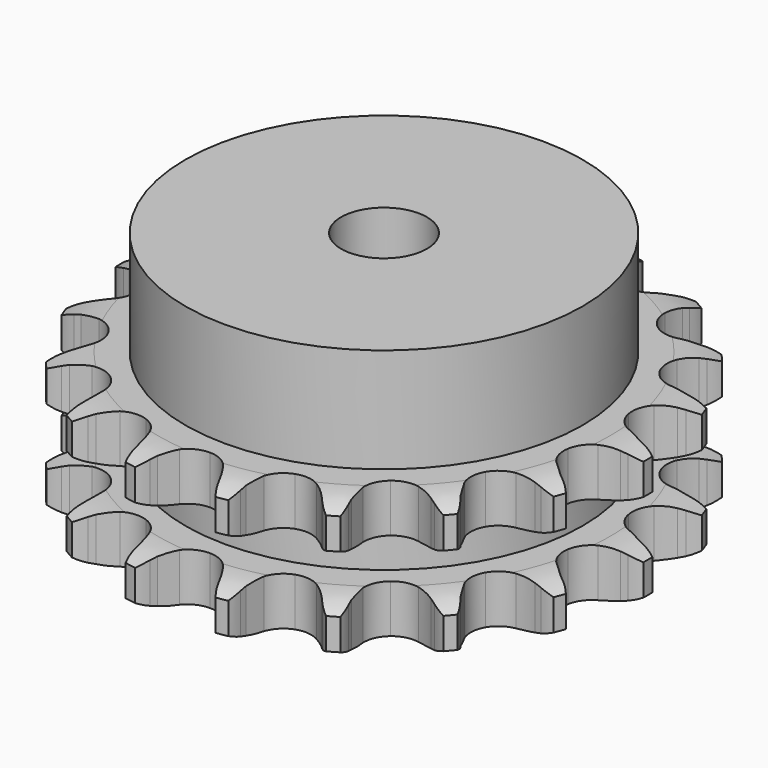
from build123d import *

# Parameters (mm, degrees)
PAD_DEPTH         = 25.5
SKETCH001_R       = 37
PAD001_DEPTH      = 45
SKETCH002_R       = 8
POCKET_DEPTH      = 0.001
POCKET_DEPTH_BACK = 45.001


with BuildPart() as part:
    # Sprocket → Pad (new body)
    with BuildSketch(Plane.XY):
        with BuildLine():
            ThreePointArc((-8.789023, 49.845028), (-7.33541, 48.372265), (-6.285014, 46.589377))
            Line((-6.285014, 46.589377), (-5.800158, 45.47132))
            ThreePointArc((-5.800158, 45.47132), (-5.013399, 43.938261), (-4.034642, 42.520059))
            ThreePointArc((-4.034642, 42.520059), (-2.241305, 41.080754), (0, 40.566741))
            ThreePointArc((0, 40.566741), (2.241305, 41.080754), (4.034642, 42.520059))
            ThreePointArc((4.034642, 42.520059), (5.013399, 43.938261), (5.800158, 45.47132))
            Line((5.800158, 45.47132), (6.285014, 46.589377))
            ThreePointArc((6.285014, 46.589377), (7.33541, 48.372265), (8.789023, 49.845028))
            ThreePointArc((8.789023, 49.845028), (9.651258, 47.963919), (10.028524, 45.929296))
            Line((10.028524, 45.929296), (10.101742, 44.712835))
            ThreePointArc((10.101742, 44.712835), (10.316716, 43.003143), (10.751394, 41.335715))
            ThreePointArc((10.751394, 41.335715), (11.944308, 39.369853), (13.874642, 38.120267))
            ThreePointArc((13.874642, 38.120267), (16.156583, 37.83671), (18.33404, 38.575857))
            Line((18.33404, 38.575857), (21.002473, 40.745293))
            ThreePointArc((21.002473, 40.745293), (21.411319, 41.197317), (21.840487, 41.630093))
            ThreePointArc((21.840487, 41.630093), (23.43732, 42.946202), (25.306984, 43.832982))
            ThreePointArc((25.306984, 43.832982), (25.473842, 41.770416), (25.132474, 39.729463))
            Line((25.132474, 39.729463), (24.785223, 38.561322))
            ThreePointArc((24.785223, 38.561322), (24.402483, 36.881211), (24.240652, 35.165673))
            ThreePointArc((24.240652, 35.165673), (24.689261, 32.910367), (26.075798, 31.075926))
            ThreePointArc((26.075798, 31.075926), (28.123139, 30.029001), (30.422082, 29.978837))
            Line((30.422082, 29.978837), (33.67158, 31.104783))
            ThreePointArc((33.67158, 31.104783), (34.21037, 31.389712), (34.761675, 31.649604))
            ThreePointArc((34.761675, 31.649604), (36.712343, 32.340194), (38.772549, 32.534031))
            ThreePointArc((38.772549, 32.534031), (38.223905, 30.538784), (37.205077, 28.737671))
            Line((37.205077, 28.737671), (36.479239, 27.758744))
            ThreePointArc((36.479239, 27.758744), (35.54495, 26.310861), (34.806131, 24.754132))
            ThreePointArc((34.806131, 24.754132), (34.456324, 22.481404), (35.131828, 20.28337))
            ThreePointArc((35.131828, 20.28337), (36.697629, 18.59935), (38.840773, 17.765927))
            Line((38.840773, 17.765927), (42.279397, 17.712576))
            ThreePointArc((42.279397, 17.712576), (42.883147, 17.796045), (43.490091, 17.851707))
            ThreePointArc((43.490091, 17.851707), (45.559316, 17.833481), (47.561572, 17.310997))
            ThreePointArc((47.561572, 17.310997), (46.363601, 15.623725), (44.790199, 14.279691))
            Line((44.790199, 14.279691), (43.773322, 13.608052))
            ThreePointArc((43.773322, 13.608052), (42.400172, 12.567033), (41.173476, 11.356878))
            ThreePointArc((41.173476, 11.356878), (40.067447, 9.340853), (39.950441, 7.044341))
            ThreePointArc((39.950441, 7.044341), (40.845844, 4.926344), (42.574692, 3.410184))
            Line((42.574692, 3.410184), (45.787695, 2.183972))
            ThreePointArc((45.787695, 2.183972), (46.383582, 2.055912), (46.972961, 1.90063))
            ThreePointArc((46.972961, 1.90063), (48.911162, 1.175787), (50.613968, 0))
            ThreePointArc((50.613968, 0), (48.911162, -1.175787), (46.972961, -1.90063))
            Line((46.972961, -1.90063), (45.787695, -2.183972))
            ThreePointArc((45.787695, -2.183972), (44.141307, -2.692564), (42.574692, -3.410184))
            ThreePointArc((42.574692, -3.410184), (40.845844, -4.926344), (39.950441, -7.044341))
            ThreePointArc((39.950441, -7.044341), (40.067447, -9.340853), (41.173476, -11.356878))
            Line((41.173476, -11.356878), (43.773322, -13.608052))
            ThreePointArc((43.773322, -13.608052), (44.289473, -13.932194), (44.790199, -14.279691))
            ThreePointArc((44.790199, -14.279691), (46.363601, -15.623725), (47.561572, -17.310997))
            ThreePointArc((47.561572, -17.310997), (45.559316, -17.833481), (43.490091, -17.851707))
            Line((43.490091, -17.851707), (42.279397, -17.712576))
            ThreePointArc((42.279397, -17.712576), (40.55835, -17.627399), (38.840773, -17.765927))
            ThreePointArc((38.840773, -17.765927), (36.697629, -18.59935), (35.131828, -20.28337))
            ThreePointArc((35.131828, -20.28337), (34.456324, -22.481404), (34.806131, -24.754132))
            Line((34.806131, -24.754132), (36.479239, -27.758744))
            ThreePointArc((36.479239, -27.758744), (36.853401, -28.239872), (37.205077, -28.737671))
            ThreePointArc((37.205077, -28.737671), (38.223905, -30.538784), (38.772549, -32.534031))
            ThreePointArc((38.772549, -32.534031), (36.712343, -32.340194), (34.761675, -31.649604))
            Line((34.761675, -31.649604), (33.67158, -31.104783))
            ThreePointArc((33.67158, -31.104783), (32.083456, -30.436109), (30.422082, -29.978837))
            ThreePointArc((30.422082, -29.978837), (28.123139, -30.029001), (26.075798, -31.075926))
            ThreePointArc((26.075798, -31.075926), (24.689261, -32.910367), (24.240652, -35.165673))
            Line((24.240652, -35.165673), (24.785223, -38.561322))
            ThreePointArc((24.785223, -38.561322), (24.972264, -39.141404), (25.132474, -39.729463))
            ThreePointArc((25.132474, -39.729463), (25.473842, -41.770416), (25.306984, -43.832982))
            ThreePointArc((25.306984, -43.832982), (23.43732, -42.946202), (21.840487, -41.630093))
            Line((21.840487, -41.630093), (21.002473, -40.745293))
            ThreePointArc((21.002473, -40.745293), (19.738825, -39.573776), (18.33404, -38.575857))
            ThreePointArc((18.33404, -38.575857), (16.156583, -37.83671), (13.874642, -38.120267))
            ThreePointArc((13.874642, -38.120267), (11.944308, -39.369853), (10.751394, -41.335715))
            Line((10.751394, -41.335715), (10.101742, -44.712835))
            ThreePointArc((10.101742, -44.712835), (10.079103, -45.321906), (10.028524, -45.929296))
            ThreePointArc((10.028524, -45.929296), (9.651258, -47.963919), (8.789023, -49.845028))
            ThreePointArc((8.789023, -49.845028), (7.33541, -48.372265), (6.285014, -46.589377))
            Line((6.285014, -46.589377), (5.800158, -45.47132))
            ThreePointArc((5.800158, -45.47132), (5.013399, -43.938261), (4.034642, -42.520059))
            ThreePointArc((4.034642, -42.520059), (2.241305, -41.080754), (0, -40.566741))
            ThreePointArc((0, -40.566741), (-2.241305, -41.080754), (-4.034642, -42.520059))
            Line((-4.034642, -42.520059), (-5.800158, -45.47132))
            ThreePointArc((-5.800158, -45.47132), (-6.029746, -46.035917), (-6.285014, -46.589377))
            ThreePointArc((-6.285014, -46.589377), (-7.33541, -48.372265), (-8.789023, -49.845028))
            ThreePointArc((-8.789023, -49.845028), (-9.651258, -47.963919), (-10.028524, -45.929296))
            Line((-10.028524, -45.929296), (-10.101742, -44.712835))
            ThreePointArc((-10.101742, -44.712835), (-10.316716, -43.003143), (-10.751394, -41.335715))
            ThreePointArc((-10.751394, -41.335715), (-11.944308, -39.369853), (-13.874642, -38.120267))
            ThreePointArc((-13.874642, -38.120267), (-16.156583, -37.83671), (-18.33404, -38.575857))
            Line((-18.33404, -38.575857), (-21.002473, -40.745293))
            ThreePointArc((-21.002473, -40.745293), (-21.411319, -41.197317), (-21.840487, -41.630093))
            ThreePointArc((-21.840487, -41.630093), (-23.43732, -42.946202), (-25.306984, -43.832982))
            ThreePointArc((-25.306984, -43.832982), (-25.473842, -41.770416), (-25.132474, -39.729463))
            Line((-25.132474, -39.729463), (-24.785223, -38.561322))
            ThreePointArc((-24.785223, -38.561322), (-24.402483, -36.881211), (-24.240652, -35.165673))
            ThreePointArc((-24.240652, -35.165673), (-24.689261, -32.910367), (-26.075798, -31.075926))
            ThreePointArc((-26.075798, -31.075926), (-28.123139, -30.029001), (-30.422082, -29.978837))
            Line((-30.422082, -29.978837), (-33.67158, -31.104783))
            ThreePointArc((-33.67158, -31.104783), (-34.21037, -31.389712), (-34.761675, -31.649604))
            ThreePointArc((-34.761675, -31.649604), (-36.712343, -32.340194), (-38.772549, -32.534031))
            ThreePointArc((-38.772549, -32.534031), (-38.223905, -30.538784), (-37.205077, -28.737671))
            Line((-37.205077, -28.737671), (-36.479239, -27.758744))
            ThreePointArc((-36.479239, -27.758744), (-35.54495, -26.310861), (-34.806131, -24.754132))
            ThreePointArc((-34.806131, -24.754132), (-34.456324, -22.481404), (-35.131828, -20.28337))
            ThreePointArc((-35.131828, -20.28337), (-36.697629, -18.59935), (-38.840773, -17.765927))
            Line((-38.840773, -17.765927), (-42.279397, -17.712576))
            ThreePointArc((-42.279397, -17.712576), (-42.883147, -17.796045), (-43.490091, -17.851707))
            ThreePointArc((-43.490091, -17.851707), (-45.559316, -17.833481), (-47.561572, -17.310997))
            ThreePointArc((-47.561572, -17.310997), (-46.363601, -15.623725), (-44.790199, -14.279691))
            Line((-44.790199, -14.279691), (-43.773322, -13.608052))
            ThreePointArc((-43.773322, -13.608052), (-42.400172, -12.567033), (-41.173476, -11.356878))
            ThreePointArc((-41.173476, -11.356878), (-40.067447, -9.340853), (-39.950441, -7.044341))
            ThreePointArc((-39.950441, -7.044341), (-40.845844, -4.926344), (-42.574692, -3.410184))
            Line((-42.574692, -3.410184), (-45.787695, -2.183972))
            ThreePointArc((-45.787695, -2.183972), (-46.383582, -2.055912), (-46.972961, -1.90063))
            ThreePointArc((-46.972961, -1.90063), (-48.911162, -1.175787), (-50.613968, 0))
            ThreePointArc((-50.613968, 0), (-48.911162, 1.175787), (-46.972961, 1.90063))
            Line((-46.972961, 1.90063), (-45.787695, 2.183972))
            ThreePointArc((-45.787695, 2.183972), (-44.141307, 2.692564), (-42.574692, 3.410184))
            ThreePointArc((-42.574692, 3.410184), (-40.845844, 4.926344), (-39.950441, 7.044341))
            ThreePointArc((-39.950441, 7.044341), (-40.067447, 9.340853), (-41.173476, 11.356878))
            Line((-41.173476, 11.356878), (-43.773322, 13.608052))
            ThreePointArc((-43.773322, 13.608052), (-44.289473, 13.932194), (-44.790199, 14.279691))
            ThreePointArc((-44.790199, 14.279691), (-46.363601, 15.623725), (-47.561572, 17.310997))
            ThreePointArc((-47.561572, 17.310997), (-45.559316, 17.833481), (-43.490091, 17.851707))
            Line((-43.490091, 17.851707), (-42.279397, 17.712576))
            ThreePointArc((-42.279397, 17.712576), (-40.55835, 17.627399), (-38.840773, 17.765927))
            ThreePointArc((-38.840773, 17.765927), (-36.697629, 18.59935), (-35.131828, 20.28337))
            ThreePointArc((-35.131828, 20.28337), (-34.456324, 22.481404), (-34.806131, 24.754132))
            Line((-34.806131, 24.754132), (-36.479239, 27.758744))
            ThreePointArc((-36.479239, 27.758744), (-36.853401, 28.239872), (-37.205077, 28.737671))
            ThreePointArc((-37.205077, 28.737671), (-38.223905, 30.538784), (-38.772549, 32.534031))
            ThreePointArc((-38.772549, 32.534031), (-36.712343, 32.340194), (-34.761675, 31.649604))
            Line((-34.761675, 31.649604), (-33.67158, 31.104783))
            ThreePointArc((-33.67158, 31.104783), (-32.083456, 30.436109), (-30.422082, 29.978837))
            ThreePointArc((-30.422082, 29.978837), (-28.123139, 30.029001), (-26.075798, 31.075926))
            ThreePointArc((-26.075798, 31.075926), (-24.689261, 32.910367), (-24.240652, 35.165673))
            Line((-24.240652, 35.165673), (-24.785223, 38.561322))
            ThreePointArc((-24.785223, 38.561322), (-24.972264, 39.141404), (-25.132474, 39.729463))
            ThreePointArc((-25.132474, 39.729463), (-25.473842, 41.770416), (-25.306984, 43.832982))
            ThreePointArc((-25.306984, 43.832982), (-23.43732, 42.946202), (-21.840487, 41.630093))
            Line((-21.840487, 41.630093), (-21.002473, 40.745293))
            ThreePointArc((-21.002473, 40.745293), (-19.738825, 39.573776), (-18.33404, 38.575857))
            ThreePointArc((-18.33404, 38.575857), (-16.156583, 37.83671), (-13.874642, 38.120267))
            ThreePointArc((-13.874642, 38.120267), (-11.944308, 39.369853), (-10.751394, 41.335715))
            Line((-10.751394, 41.335715), (-10.101742, 44.712835))
            ThreePointArc((-10.101742, 44.712835), (-10.079103, 45.321906), (-10.028524, 45.929296))
            ThreePointArc((-10.028524, 45.929296), (-9.651258, 47.963919), (-8.789023, 49.845028))
        make_face()
    extrude(amount=PAD_DEPTH)

    # Sketch → Groove (revolve, cut)
    with BuildSketch(Plane.XZ):
        with BuildLine():
            ThreePointArc((42.175762, 0), (45.75347, 0.405129), (49.15, 1.6))
            Line((49.15, 1.6), (49.15, 7.4))
            ThreePointArc((49.15, 7.4), (45.75347, 8.594871), (42.175762, 9))
            Line((37, 9), (42.175762, 9))
            Line((37, 16.5), (37, 9))
            Line((42.175762, 16.5), (37, 16.5))
            ThreePointArc((42.175762, 16.5), (45.75347, 16.905129), (49.15, 18.1))
            Line((49.15, 18.1), (49.15, 23.9))
            ThreePointArc((49.15, 23.9), (45.75347, 25.094871), (42.175762, 25.5))
            Line((42.175762, 25.5), (52.175762, 25.5))
            Line((52.175762, 25.5), (52.175762, 0))
            Line((42.175762, 0), (52.175762, 0))
        make_face()
    revolve(axis=Axis((0, 0, 0), (0, 0, 1)), mode=Mode.SUBTRACT)

    # Sketch001 → Pad001 (join)
    with BuildSketch(Plane.XY):
        Circle(SKETCH001_R)
    extrude(amount=PAD001_DEPTH)

    # Sketch002 → Pocket (cut, two sides)
    with BuildSketch(Plane.XY) as pocket_sk:
        Circle(SKETCH002_R)
    extrude(amount=-POCKET_DEPTH, mode=Mode.SUBTRACT)
    extrude(pocket_sk.sketch, amount=POCKET_DEPTH_BACK, mode=Mode.SUBTRACT)


solid = part.part
